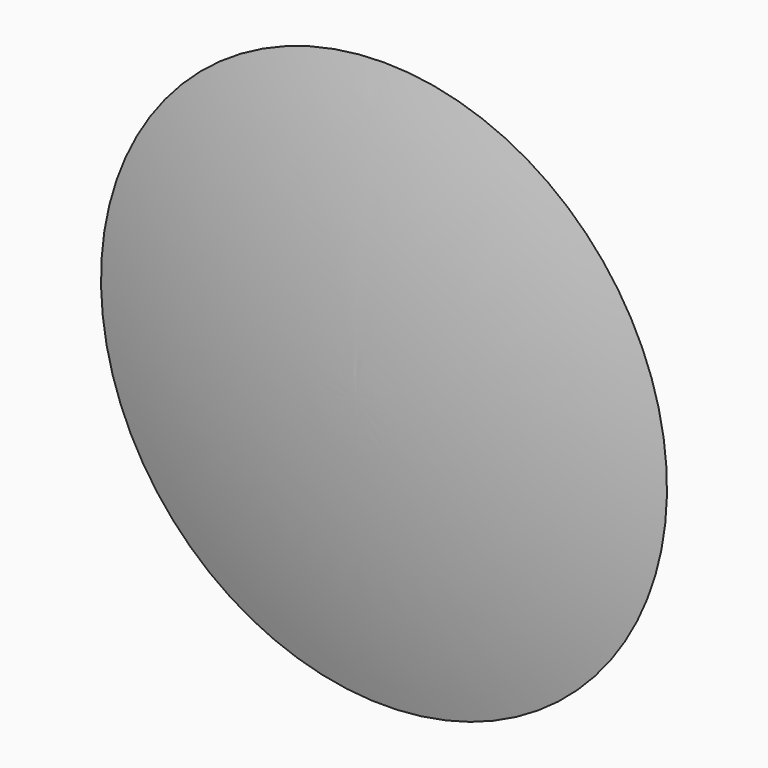
from build123d import *


with BuildPart() as f1:
    # F0 (on Right) → F1 (revolve)
    with BuildSketch(Plane.YZ):
        with BuildLine():
            ThreePointArc((3.870569, 0), (2.899212, 15.677408), (0, 31.115))
            ThreePointArc((0, 31.115), (-2.899212, 15.677408), (-3.870569, 0))
            Line((-3.870569, 0), (0, 0))
            Line((0, 0), (3.870569, 0))
        make_face()
    revolve(axis=Axis((0, 1.935285, 0), (0, 1, 0)))


solid = f1.part
